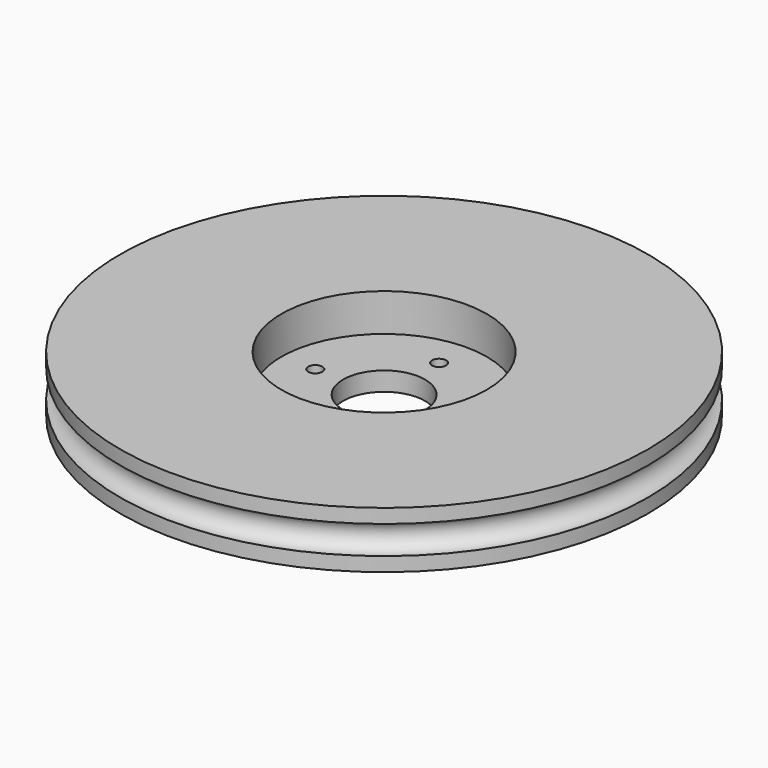
from build123d import *

# Parameters (mm, degrees)
CYLINDER003_R     = 0.75
CYLINDER003_DEPTH = 10
ARRAY_COUNT       = 4
CYLINDER002_R     = 4.35
CYLINDER002_DEPTH = 10
CYLINDER001_R     = 10.9
CYLINDER001_DEPTH = 10
TORUS_R           = 1.5
CYLINDER_R        = 28
CYLINDER_DEPTH    = 6


with BuildPart() as array:
    # Cylinder003 → Cylinder003 (new body)
    with BuildSketch(Plane(origin=(7.3, 0, -5), x_dir=(1, 0, 0), z_dir=(0, 0, 1))):
        Circle(CYLINDER003_R)
    extrude(amount=CYLINDER003_DEPTH)

    # Array: Array ×4 about axis
    array_axis = Axis((0, 0, 1), (0, 0, 1))


with BuildPart() as array_1:
    add(array.part)
    for i in range(1, ARRAY_COUNT):
        add(array.part.rotate(array_axis, i * 360 / ARRAY_COUNT))


with BuildPart() as obj1:
    # Cylinder002 → Cylinder002 (new body)
    with BuildSketch(Plane.XY.offset(-2)):
        Circle(CYLINDER002_R)
    extrude(amount=CYLINDER002_DEPTH)


with BuildPart() as corona_servo:
    # Cylinder001 → Cylinder001 (new body)
    with BuildSketch(Plane.XY.offset(2)):
        Circle(CYLINDER001_R)
    extrude(amount=CYLINDER001_DEPTH)


with BuildPart() as junta:
    # Torus → Torus (revolve)
    with BuildSketch(Plane(origin=(0, 0, 3), x_dir=(1, 0, 0), z_dir=(0, -1, 0))):
        with Locations((28, 0)):
            Circle(TORUS_R)
    revolve(axis=Axis((0, 0, 3), (0, 0, 1)))


with BuildPart() as obj2:
    # Cylinder → Cylinder (new body)
    with BuildSketch(Plane.XY):
        Circle(CYLINDER_R)
    extrude(amount=CYLINDER_DEPTH)

    # Cut: cut junta
    add(junta.part, mode=Mode.SUBTRACT)

    # Cut001: cut corona servo
    add(corona_servo.part, mode=Mode.SUBTRACT)

    # Cut002: cut obj1
    add(obj1.part, mode=Mode.SUBTRACT)

    # Cut003: cut Array
    add(array_1.part, mode=Mode.SUBTRACT)


solid = obj2.part
